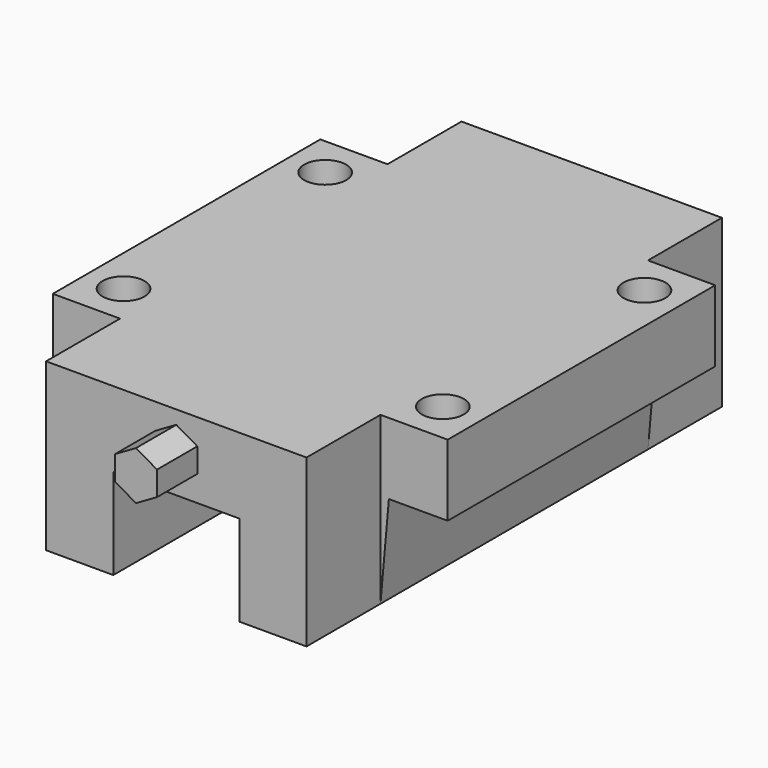
from build123d import *

# Parameters (mm, degrees)
PAD_DEPTH    = 39.8
PAD001_DEPTH = 11
PAD002_DEPTH = 11
PAD003_DEPTH = 6
SKETCH004_R  = 2.5
POCKET_DEPTH = 19.801


with BuildPart() as part:
    # Sketch → Pad (new body)
    with BuildSketch(Plane.XZ):
        Polygon((-23.5, 19.8), (23.5, 19.8), (23.5, 11.3), (16.5, 11.3), (15.5, 0), (7.5, 0), (7.5, 10.8), (-7.5, 10.8), (-7.5, 0), (-15.5, 0), (-16.5, 11.3), (-23.5, 11.3), align=None)
    extrude(amount=PAD_DEPTH)

    # Sketch001 (on Face14 of Pad) → Pad001 (join)
    with BuildSketch(Plane.XZ.offset(39.8)):
        Polygon((-15.5, 0), (-7.5, 0), (-7.5, 10.8), (7.5, 10.8), (7.5, 0), (15.5, 0), (15.5, 19.8), (-15.5, 19.8), align=None)
    extrude(amount=PAD001_DEPTH)

    # Sketch002 (on Face4 of Pad001) → Pad002 (join)
    with BuildSketch(Plane(origin=(0, 0, 0), x_dir=(1, 0, 0), z_dir=(0, 1, 0))):
        Polygon((-15.5, 0), (-7.5, 0), (-7.5, -10.8), (7.5, -10.8), (7.5, 0), (15.5, 0), (15.5, -19.8), (-15.5, -19.8), align=None)
    extrude(amount=PAD002_DEPTH)

    # Sketch003 (on Face19 of Pad002) → Pad003 (join)
    with BuildSketch(Plane.XZ.offset(50.8)):
        Polygon((0, 12.413249), (2.5, 13.856624), (2.5, 16.743376), (0, 18.186751), (-2.5, 16.743376), (-2.5, 13.856624), align=None)
    extrude(amount=PAD003_DEPTH)

    # Sketch004 (on Face1 of Pad003) → Pocket (cut, through all)
    with BuildSketch(Plane(origin=(0, 0, 19.8), x_dir=(-1, 0, 0), z_dir=(0, 0, 1))):
        with Locations((-19, 34.9)):
            Circle(SKETCH004_R)
        with Locations((-19, 4.9)):
            Circle(SKETCH004_R)
        with Locations((19, 4.9)):
            Circle(SKETCH004_R)
        with Locations((19, 34.9)):
            Circle(SKETCH004_R)
    extrude(amount=-POCKET_DEPTH, mode=Mode.SUBTRACT)


solid = part.part
